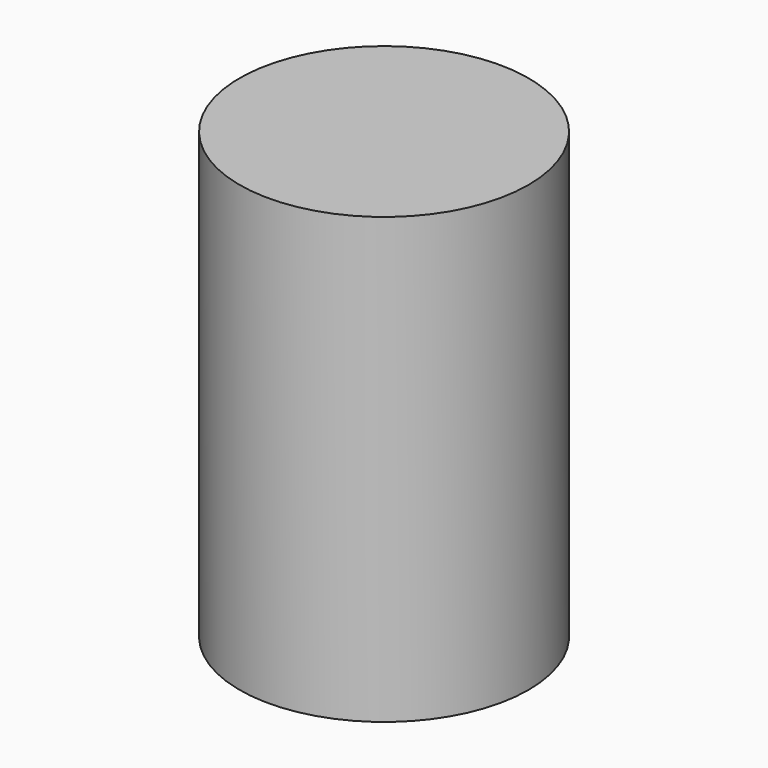
from build123d import *

# Parameters (mm, degrees)
F1_R     = 6.5
F2_DEPTH = 20
F3_DEPTH = 15


with BuildPart() as f2:
    # F1 (on Top) → F2 (new body)
    with BuildSketch(Plane.XY):
        Circle(F1_R)
    extrude(amount=F2_DEPTH)

    # F0 (on Top) → F3 (cut)
    with BuildSketch(Plane.XY):
        with BuildLine():
            Line((3, 0), (3, 1.25))
            Line((3, 1.25), (4.841229, 1.25))
            ThreePointArc((4.841229, 1.25), (0, 5), (-4.841229, 1.25))
            Line((-4.841229, 1.25), (-3, 1.25))
            Line((-3, 1.25), (-3, 0))
            Line((-3, 0), (-3, -1.25))
            Line((-3, -1.25), (-4.841229, -1.25))
            ThreePointArc((-4.841229, -1.25), (0, -5), (4.841229, -1.25))
            Line((4.841229, -1.25), (3, -1.25))
            Line((3, -1.25), (3, 0))
        make_face()
    extrude(amount=F3_DEPTH, mode=Mode.SUBTRACT)


solid = f2.part
